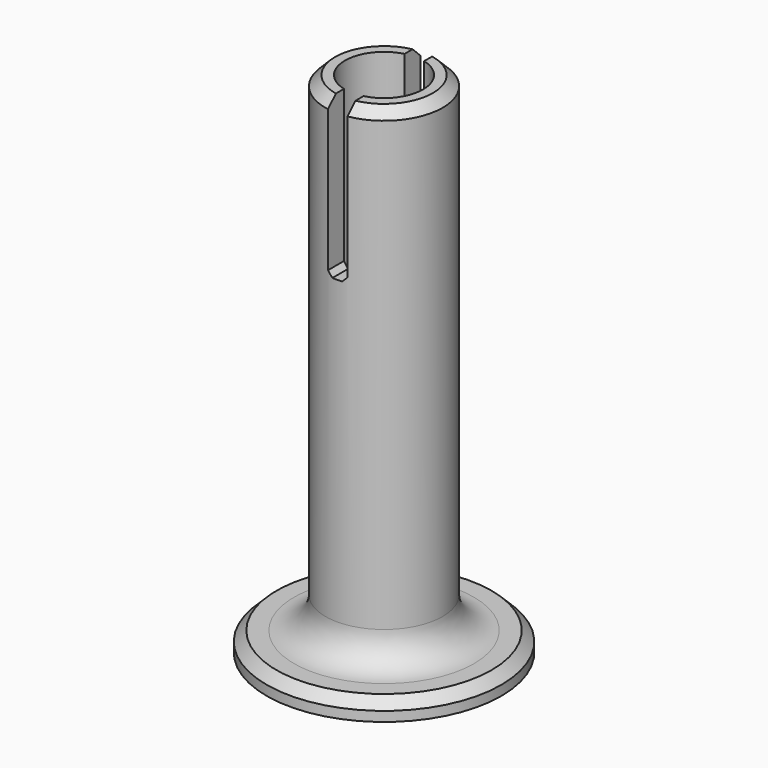
from build123d import *

# Parameters (mm, degrees)
F0_R     = 9.525
F1_DEPTH = 82.55
F2_R     = 19.05
F3_DEPTH = 3.175
F4_R     = 6.35
F5_DEPTH = 53.975
F6_R     = 5.08
F7_SIZE  = 1.5875
F8_W     = 1.5875
F8_H     = 25.4
F9_DEPTH = 25.4
F10_SIZE = 0.8001


with BuildPart() as f1:
    # F0 (on Top) → F1 (new body)
    with BuildSketch(Plane.XY):
        Circle(F0_R)
    extrude(amount=F1_DEPTH)

    # F2 (on Top) → F3 (join)
    with BuildSketch(Plane.XY):
        Circle(F2_R)
    extrude(amount=F3_DEPTH)

    # F4 (on face) → F5 (cut)
    with BuildSketch(Plane.XY.offset(82.55)):
        Circle(F4_R)
    extrude(amount=-F5_DEPTH, mode=Mode.SUBTRACT)

    # F6
    f6_edges = [f1.edges().sort_by_distance(p)[0] for p in [
        (-9.525, 0, 3.175),
    ]]
    fillet(f6_edges, radius=F6_R)

    # F7
    f7_edges = [f1.edges().sort_by_distance(p)[0] for p in [
        (-9.525, 0, 82.55),
        (-19.05, 0, 3.175),
    ]]
    chamfer(f7_edges, length=F7_SIZE)

    # F8 (on face) → F9 (cut)
    with BuildSketch(Plane.XY.offset(82.55)):
        Polygon((1.5875, 0), (0, 0), (0, 25.4), (-1.5875, 25.4), (-1.5875, 0), (-1.5875, -25.4), (0, -25.4), (1.5875, -25.4), align=None)
        with Locations((0.79375, 12.7)):
            Rectangle(F8_W, F8_H)
    extrude(amount=-F9_DEPTH, mode=Mode.SUBTRACT)

    # F10
    f10_edges = [f1.edges().sort_by_distance(p)[0] for p in [
        (1.5875, 7.770069, 57.15),
        (1.5875, -7.770069, 57.15),
        (-1.5875, 7.770069, 57.15),
        (-1.5875, -7.770069, 57.15),
    ]]
    chamfer(f10_edges, length=F10_SIZE)


solid = f1.part
